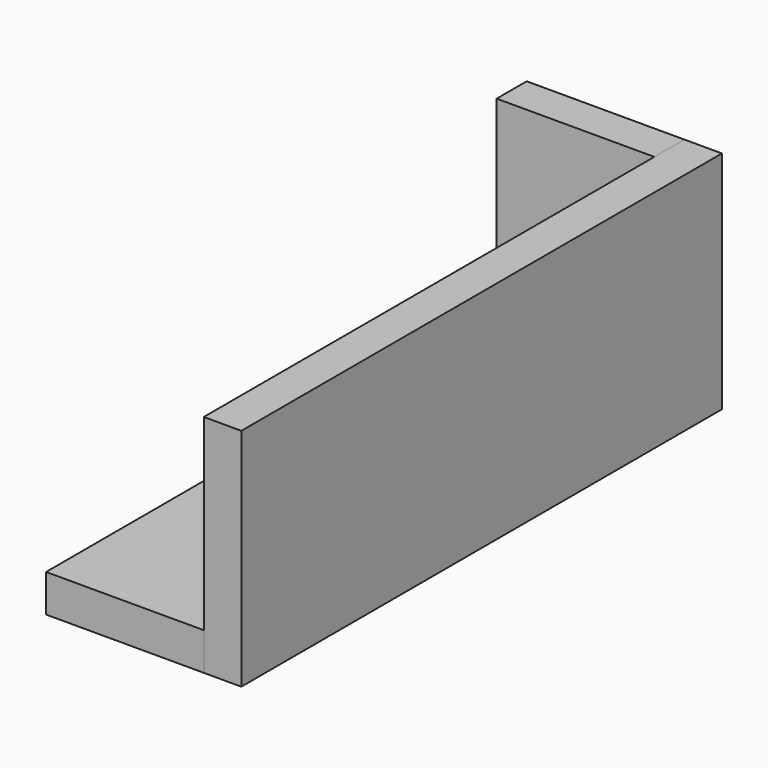
from build123d import *

# Parameters (mm, degrees)
F0_W          = 53.34
F0_H          = 63.5
F1_DEPTH      = 12.7
F2_W          = 12.7
F2_H          = 76.2
F3_DEPTH      = 203.2
F4_W          = 53.34
F4_H          = 12.7
F5_DEPTH      = 203.2
F6_R          = 1.5875
F7_DEPTH      = 12.701
F8_R          = 1.27
F9_DEPTH      = 12.7
F9_DEPTH_BACK = 15.24


with BuildPart() as f1:
    # F0 (on Front) → F1 (new body)
    with BuildSketch(Plane.XZ):
        with Locations((0, 31.75)):
            Rectangle(F0_W, F0_H)
    extrude(amount=F1_DEPTH)

    # F6 (on face) → F7 (cut, through all)
    with BuildSketch(Plane.XZ.offset(12.7)):
        with Locations((0, 31.75)):
            Circle(F6_R)
    extrude(amount=-F7_DEPTH, mode=Mode.SUBTRACT)


with BuildPart() as f3:
    # F2 (on Front) → F3 (new body)
    with BuildSketch(Plane.XZ):
        with Locations((33.02, 25.4)):
            Rectangle(F2_W, F2_H)
    extrude(amount=F3_DEPTH)


with BuildPart() as f5:
    # F4 (on Front) → F5 (new body, through all)
    with BuildSketch(Plane.XZ):
        with Locations((0, -6.35)):
            Rectangle(F4_W, F4_H)
    extrude(amount=F5_DEPTH)


with BuildPart() as f9:
    # F8 (on face) → F9 (new body, two sides)
    with BuildSketch(Plane.XZ.offset(12.7)) as f9_sk:
        with Locations((0, 31.75)):
            Circle(F8_R)
    extrude(amount=F9_DEPTH)
    extrude(f9_sk.sketch, amount=-F9_DEPTH_BACK)


solid = Compound([f1.part, f3.part, f5.part, f9.part])
